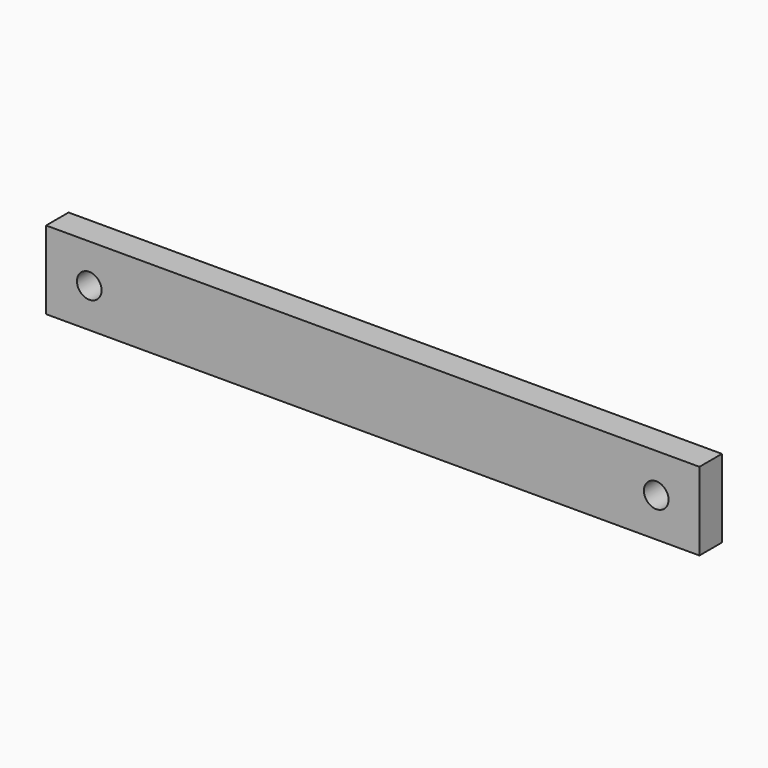
from build123d import *

# Parameters (mm, degrees)
F0_W     = 92.996
F0_H     = 11.117
F1_DEPTH = 4
F2_R     = 1.7525
F3_DEPTH = 25


with BuildPart() as f1:
    # F0 (on Front) → F1 (new body)
    with BuildSketch(Plane.XZ):
        Rectangle(F0_W, F0_H)
    extrude(amount=F1_DEPTH)

    # F2 (on face) → F3 (cut)
    with BuildSketch(Plane.XZ.offset(4)):
        with BuildLine():
            ThreePointArc((-42.101, 0), (-40.3485, -1.7525), (-38.596, 0))
            ThreePointArc((-38.596, 0), (-40.3485, 1.7525), (-42.101, 0))
        make_face()
        with Locations((40.3485, 0)):
            Circle(F2_R)
    extrude(amount=-F3_DEPTH, mode=Mode.SUBTRACT)


solid = f1.part
